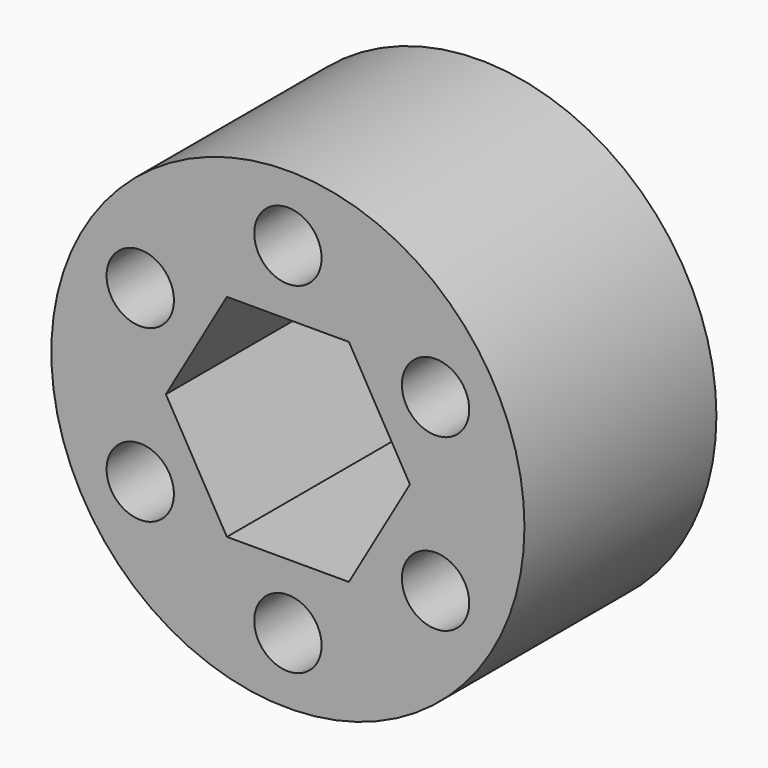
from build123d import *

# Parameters (mm, degrees)
F0_R     = 14.2748
F0_R_2   = 2.032
F1_DEPTH = 14.478


with BuildPart() as f1:
    # F0 (on Front) → F1 (new body)
    with BuildSketch(Plane.XZ):
        Circle(F0_R)
        with Locations((0, -10.287)):
            Circle(F0_R_2, mode=Mode.SUBTRACT)
        with Locations((-8.908803, -5.1435)):
            Circle(F0_R_2, mode=Mode.SUBTRACT)
        Polygon((3.680839, 6.3754), (7.361678, 0), (3.680839, -6.3754), (-3.680839, -6.3754), (-7.361678, 0), (-3.680839, 6.3754), align=None, mode=Mode.SUBTRACT)
        with Locations((8.908803, -5.1435)):
            Circle(F0_R_2, mode=Mode.SUBTRACT)
        with Locations((-8.908803, 5.1435)):
            Circle(F0_R_2, mode=Mode.SUBTRACT)
        with Locations((0, 10.287)):
            Circle(F0_R_2, mode=Mode.SUBTRACT)
        with Locations((8.908803, 5.1435)):
            Circle(F0_R_2, mode=Mode.SUBTRACT)
    extrude(amount=F1_DEPTH)


solid = f1.part
